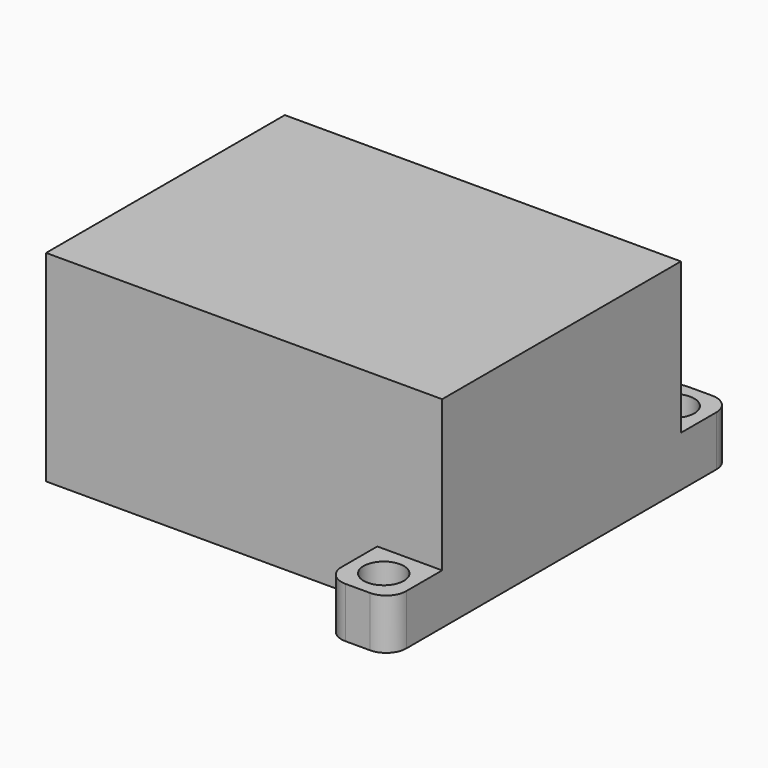
from build123d import *

# Parameters (mm, degrees)
F0_W         = 50
F0_H         = 54
F1_DEPTH     = 25.4
F2_W         = 41.8139733374
F2_H         = 8.200337179
F3_DEPTH     = 50.8
F4_W         = 8.200337179
F4_H         = 19.0244916171
F5_DEPTH     = 25.4
F7_D         = 5.08
F8_R         = 2.54
F9_W         = 50
F9_H         = 19.05
F10_DEPTH    = 8.128
F11_W        = 33.5916
F11_H        = 8.128
F12_DEPTH    = 25.4
F15_D        = 5.08
F15_ON_F13_D = 5.08
F16_R        = 2.54


with BuildPart() as f1:
    # F0 (on Top) → F1 (new body)
    with BuildSketch(Plane.XY):
        with Locations((-25.227407366, 34.7650984749)):
            Rectangle(F0_W, F0_H)
    extrude(amount=F1_DEPTH)

    # F2 (on face) → F3 (cut)
    with BuildSketch(Plane.XY.offset(25.4)):
        with Locations((-29.3204206973, 11.8652670644)):
            Rectangle(F2_W, F2_H)
    extrude(amount=-F3_DEPTH, mode=Mode.SUBTRACT)

    # F4 (on face) → F5 (cut)
    with BuildSketch(Plane(origin=(-8.4134340286, 0, 0), x_dir=(0, -1, 0), z_dir=(-1, 0, 0))):
        with Locations((-11.8652670644, 15.8877541915)):
            Rectangle(F4_W, F4_H)
    extrude(amount=-F5_DEPTH, mode=Mode.SUBTRACT)

    # F7 (through all)
    with Locations(Plane.XY.offset(6.3755083829)):
        with Locations((-4.3204206973, 11.8652670644)):
            Hole(F7_D / 2)

    # F8
    f8_edges = [f1.edges().sort_by_distance(p)[0] for p in [
        (-8.413434, 7.765098, 3.187754),
        (-0.227407, 7.765098, 3.187754),
    ]]
    fillet(f8_edges, radius=F8_R)

    # F9 (on face) → F10 (cut)
    with BuildSketch(Plane(origin=(0, 61.7650984749, 0), x_dir=(-1, 0, 0), z_dir=(0, 1, 0))):
        with Locations((25.227407366, 15.875)):
            Rectangle(F9_W, F9_H)
    extrude(amount=-F10_DEPTH, mode=Mode.SUBTRACT)

    # F11 (on face) → F12 (cut)
    with BuildSketch(Plane.XY.offset(6.35)):
        with Locations((-25.227407366, 57.7010984749)):
            Rectangle(F11_W, F11_H)
    extrude(amount=-F12_DEPTH, mode=Mode.SUBTRACT)

    # F15 (through all)
    with Locations(Plane.XY.offset(6.35)):
        with Locations((-4.329507366, 57.7010984749)):
            Hole(F15_D / 2)

    # F15 on F13 (through all)
    with Locations(Plane.XY.offset(6.35)):
        with Locations((-46.125307366, 57.7010984749)):
            Hole(F15_ON_F13_D / 2)

    # F16
    f16_edges = [f1.edges().sort_by_distance(p)[0] for p in [
        (-50.227407, 61.765098, 3.175),
        (-42.023207, 61.765098, 3.175),
        (-8.431607, 61.765098, 3.175),
        (-0.227407, 61.765098, 3.175),
    ]]
    fillet(f16_edges, radius=F16_R)


solid = f1.part
